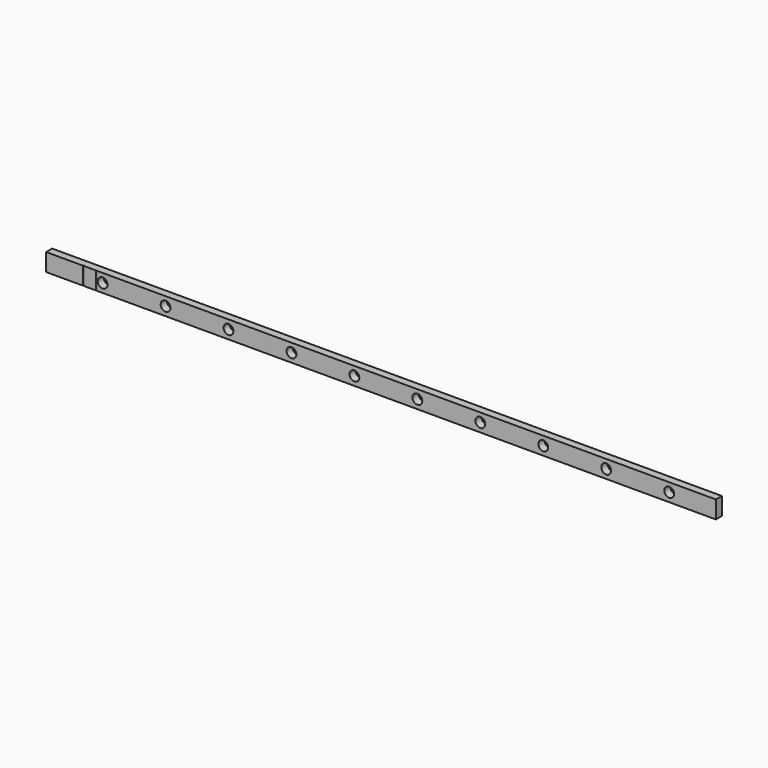
from build123d import *

# Parameters (mm, degrees)
F0_W     = 266
F0_H     = 7
F1_DEPTH = 3
F2_R     = 1.95
F3_DEPTH = 3.001
F4_R     = 0.25
F5_DEPTH = 7.001


with BuildPart() as f1:
    # F0 (on Front) → F1 (new body)
    with BuildSketch(Plane.XZ):
        Rectangle(F0_W, F0_H)
    extrude(amount=F1_DEPTH)

    # F2 (on face) → F3 (cut, through all)
    with BuildSketch(Plane.XZ.offset(3)):
        with Locations((-110.55, 0)):
            Circle(F2_R)
        with Locations((-85.55, 0)):
            Circle(F2_R)
        with Locations((-60.55, 0)):
            Circle(F2_R)
        with Locations((-35.55, 0)):
            Circle(F2_R)
        with Locations((-10.55, 0)):
            Circle(F2_R)
        with Locations((14.45, 0)):
            Circle(F2_R)
        with Locations((39.45, 0)):
            Circle(F2_R)
        with Locations((64.45, 0)):
            Circle(F2_R)
        with Locations((89.45, 0)):
            Circle(F2_R)
        with Locations((114.45, 0)):
            Circle(F2_R)
    extrude(amount=-F3_DEPTH, mode=Mode.SUBTRACT)

    # F4 (on face) → F5 (cut, through all)
    with BuildSketch(Plane(origin=(0, 0, -3.5), x_dir=(1, 0, 0), z_dir=(0, 0, -1))):
        with Locations((-118, 3)):
            Circle(F4_R)
        with Locations((-113, 3)):
            Circle(F4_R)
    extrude(amount=-F5_DEPTH, mode=Mode.SUBTRACT)


solid = f1.part
